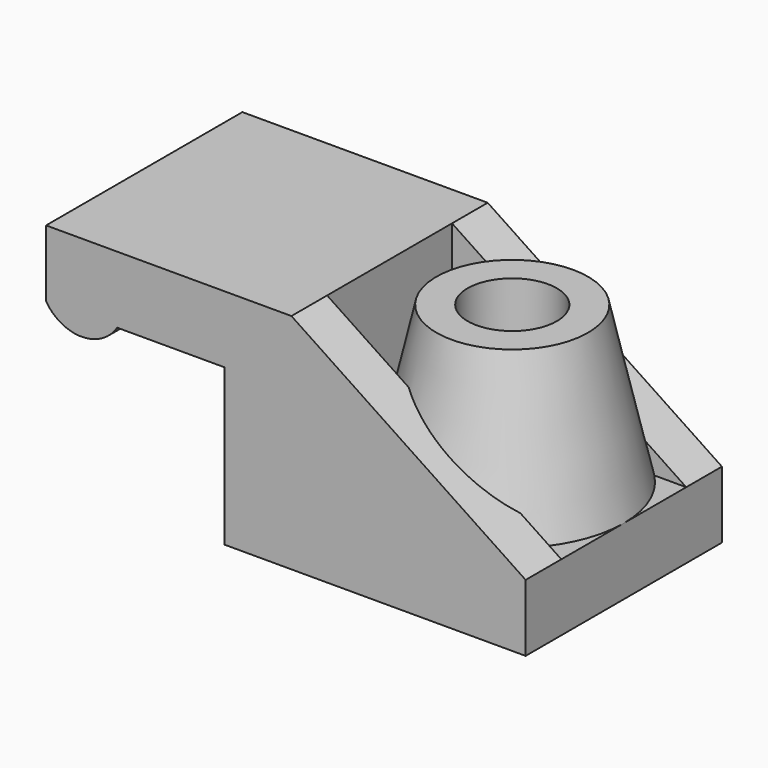
from build123d import *

# Parameters (mm, degrees)
F0_W     = 10.5
F0_H     = 3
F1_DEPTH = 11
F2_DEPTH = 2
F4_DEPTH = 2
F5_R     = 2
F6_DEPTH = 25
F7_R     = 3.4
F7_R_2   = 2
F8_DEPTH = 7


with BuildPart() as f1:
    # F0 (on Front) → F1 (new body)
    with BuildSketch(Plane.XZ):
        with Locations((6.75, -3.5)):
            Rectangle(F0_W, F0_H)
        with BuildLine():
            Line((1.5, 4), (1.5, 5))
            Line((1.5, 5), (-9.5, 5))
            Line((-9.5, 5), (-9.5, 2))
            ThreePointArc((-9.5, 2), (-7.9057595357, 1.1241546177), (-6.3115190715, 2))
            Line((-6.3115190715, 2), (-1.5, 2))
            Line((-1.5, 2), (-1.5, -4))
            Line((-1.5, -4), (-1.5, -5))
            Line((-1.5, -5), (1.5, -5))
            Line((1.5, -5), (1.5, -2))
            Line((1.5, -2), (1.5, 4))
        make_face()
    extrude(amount=F1_DEPTH)

    # F0 (on Front) → F2 (join)
    with BuildSketch(Plane.XZ):
        Polygon((12, -2), (1.5, 5), (1.5, 4), (1.5, -2), align=None)
    extrude(amount=F2_DEPTH)

    # F3 (on face) → F4 (join)
    with BuildSketch(Plane.XZ.offset(11)):
        Polygon((1.5, -2), (12, -2), (1.5, 5), align=None)
    extrude(amount=-F4_DEPTH)

    # F5 (on face) → F6 (cut)
    with BuildSketch(Plane(origin=(0, 0, -5), x_dir=(1, 0, 0), z_dir=(0, 0, -1))):
        with Locations((7.0000002161, 5.5)):
            Circle(F5_R)
    extrude(amount=-F6_DEPTH, mode=Mode.SUBTRACT)

    # F7 (on face) → F8 (join)
    with BuildSketch(Plane.XY.offset(-2)):
        with Locations((7.0000002161, -5.5)):
            Circle(F7_R)
        with Locations((7.0000002161, -5.5)):
            Circle(F7_R_2, mode=Mode.SUBTRACT)
    extrude(amount=F8_DEPTH)

    # F10 (on offset) → F11 (revolve)
    with BuildSketch(Plane.YZ.offset(7)):
        Polygon((-2.1, 5), (-2.1, -2), (-2, -2), (-0.5000002161, -2), align=None)
    revolve(axis=Axis((7, -5.5, 1.7165149804), (0, 0, 1)))


solid = f1.part
